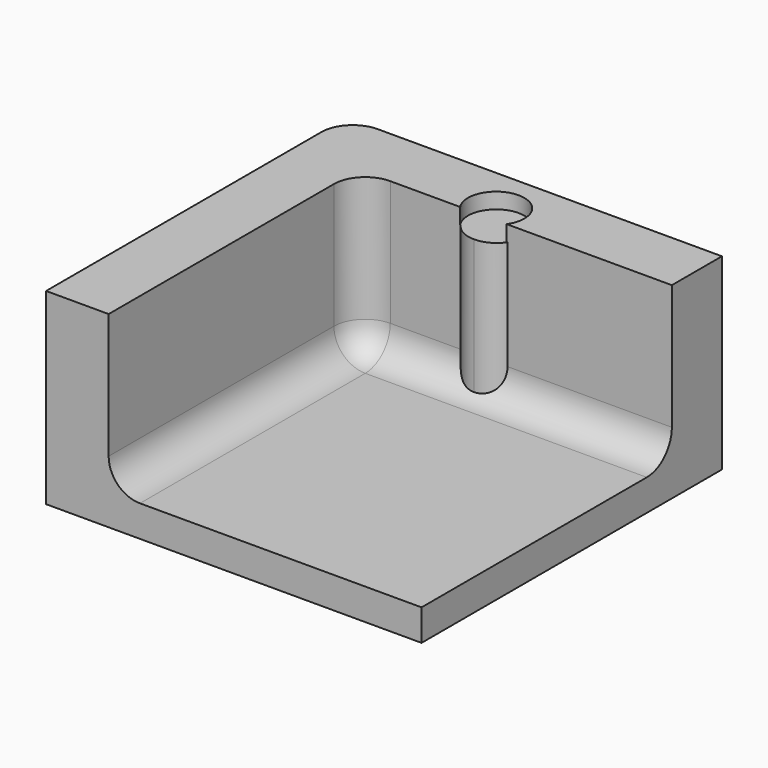
from build123d import *

# Parameters (mm, degrees)
F0_W     = 120
F0_H     = 120
F1_DEPTH = 60
F2_W     = 100
F2_H     = 100
F3_DEPTH = 50
F4_R     = 10
F5_R     = 9
F6_DEPTH = 5
F7_R     = 10
F9_DEPTH = 45


with BuildPart() as f1:
    # F0 (on Top) → F1 (new body)
    with BuildSketch(Plane.XY):
        with Locations((-63.325952, -55.072633)):
            Rectangle(F0_W, F0_H)
    extrude(amount=F1_DEPTH)

    # F2 (on face) → F3 (cut)
    with BuildSketch(Plane.XY.offset(60)):
        with Locations((-53.325952, -65.072633)):
            Rectangle(F2_W, F2_H)
    extrude(amount=-F3_DEPTH, mode=Mode.SUBTRACT)

    # F4
    f4_edges = [f1.edges().sort_by_distance(p)[0] for p in [
        (-103.325952, -15.072633, 35),
        (-53.325952, -15.072633, 10),
        (-103.325952, -65.072633, 10),
    ]]
    fillet(f4_edges, radius=F4_R)

    # F5 (on face) → F6 (cut)
    with BuildSketch(Plane.XY.offset(60)):
        with Locations((-63.533046, -10.001782)):
            Circle(F5_R)
    extrude(amount=-F6_DEPTH, mode=Mode.SUBTRACT)

    # F7
    f7_edges = [f1.edges().sort_by_distance(p)[0] for p in [
        (-123.325952, 4.927367, 30),
    ]]
    fillet(f7_edges, radius=F7_R)

    # F8 (on face) → F9 (join)
    with BuildSketch(Plane.XY.offset(10)):
        with BuildLine():
            ThreePointArc((-63.325952, -1.072633), (-72.325952, -10.072633), (-63.325952, -19.072633))
            Line((-63.325952, -19.072633), (-63.325952, -1.072633))
        make_face()
        with BuildLine():
            Line((-63.325952, -1.072633), (-63.325952, -19.072633))
            ThreePointArc((-63.325952, -19.072633), (-56.96199, -16.436594), (-54.325952, -10.072633))
            ThreePointArc((-54.325952, -10.072633), (-56.96199, -3.708672), (-63.325952, -1.072633))
        make_face()
    extrude(amount=F9_DEPTH)


solid = f1.part
